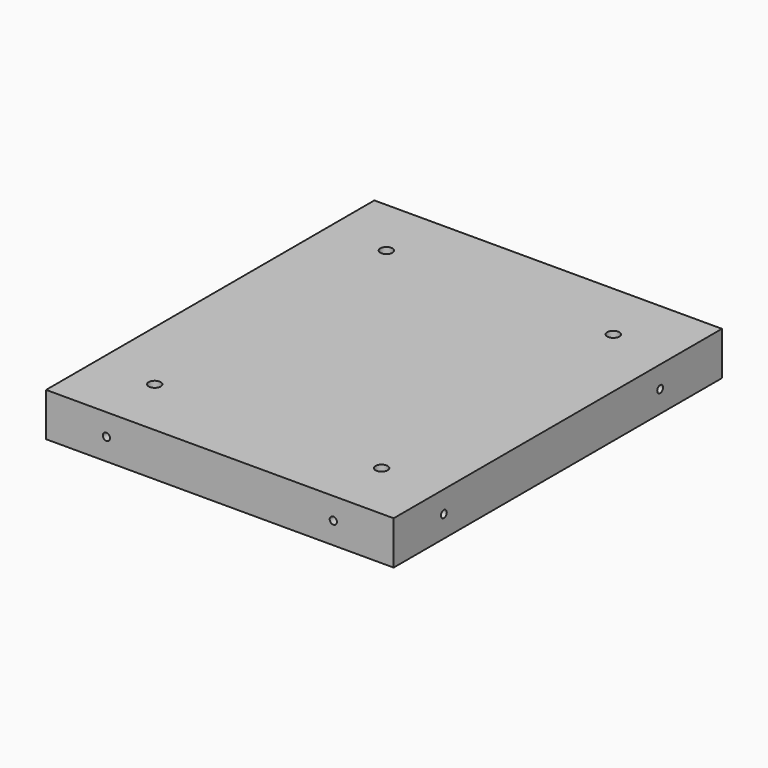
from build123d import *

# Parameters (mm, degrees)
F0_W     = 144
F0_H     = 170
F1_DEPTH = 18
F2_R     = 2.5
F3_DEPTH = 18
F4_R     = 1.5
F5_DEPTH = 170.001
F6_R     = 1.5
F7_DEPTH = 144.001


with BuildPart() as f1:
    # F0 (on Top) → F1 (new body)
    with BuildSketch(Plane.XY):
        with Locations((-72, -85)):
            Rectangle(F0_W, F0_H)
    extrude(amount=F1_DEPTH)

    # F2 (on face) → F3 (cut)
    with BuildSketch(Plane.XY.offset(18)):
        with Locations((-25, -145)):
            Circle(F2_R)
        with Locations((-119, -145)):
            Circle(F2_R)
        with Locations((-119, -25)):
            Circle(F2_R)
        with Locations((-25, -25)):
            Circle(F2_R)
    extrude(amount=-F3_DEPTH, mode=Mode.SUBTRACT)

    # F4 (on face) → F5 (cut, through all)
    with BuildSketch(Plane.XZ.offset(170)):
        with Locations((-25, 9)):
            Circle(F4_R)
        with Locations((-119, 9)):
            Circle(F4_R)
    extrude(amount=-F5_DEPTH, mode=Mode.SUBTRACT)

    # F6 (on face) → F7 (cut, through all)
    with BuildSketch(Plane(origin=(-144, 0, 0), x_dir=(0, -1, 0), z_dir=(-1, 0, 0))):
        with Locations((32, 9)):
            Circle(F6_R)
        with Locations((144, 9)):
            Circle(F6_R)
    extrude(amount=-F7_DEPTH, mode=Mode.SUBTRACT)


solid = f1.part
